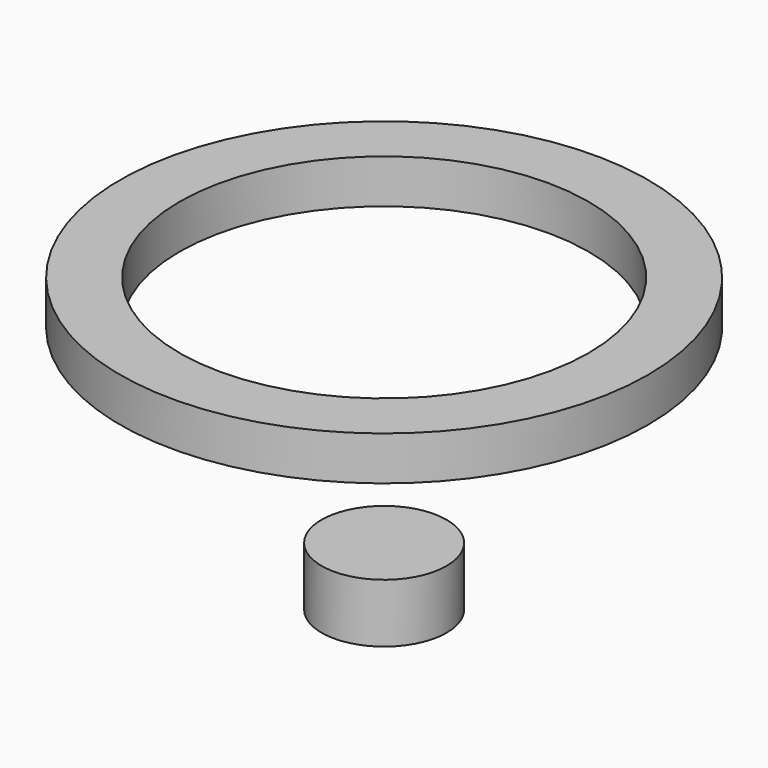
from build123d import *

# Parameters (mm, degrees)
F0_W   = 11.18762
F0_H   = 10.533264
F0_W_2 = 10.610946
F0_H_2 = 7.871993


with BuildPart() as f1:
    # F0 (on Front) → F1 (revolve)
    with BuildSketch(Plane.XZ):
        with Locations((5.59381, 5.266632)):
            Rectangle(F0_W, F0_H)
        with Locations((41.932907, 48.420828)):
            Rectangle(F0_W_2, F0_H_2)
    revolve(axis=Axis((0, 0, 50.307788), (0, 0, 1)))


solid = f1.part
